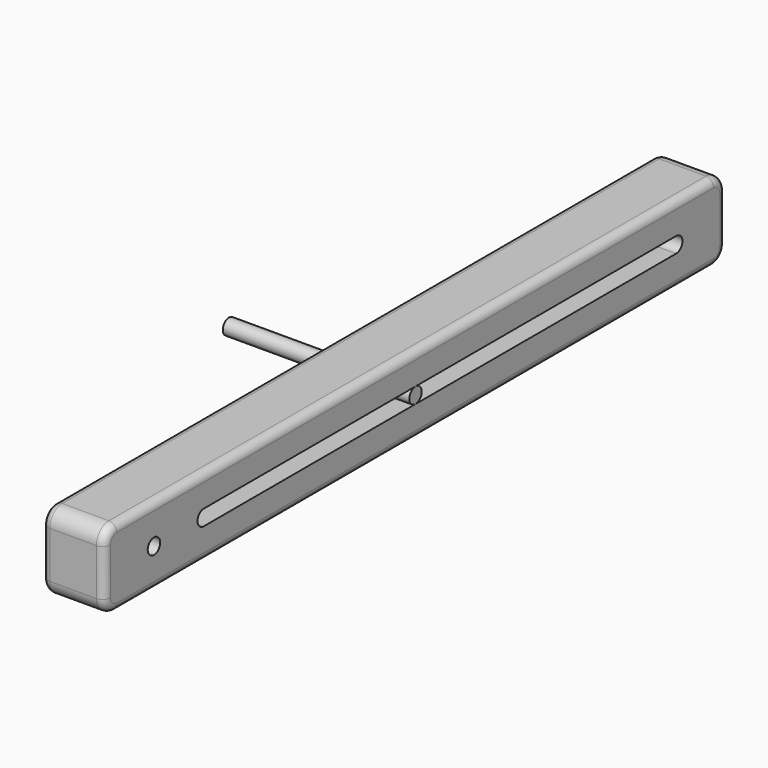
from build123d import *

# Parameters (mm, degrees)
F0_W     = 500
F0_H     = 50
F0_R     = 5
F1_DEPTH = 40
F2_R     = 10
F3_R     = 5
F4_R     = 5
F5_DEPTH = 120


with BuildPart() as f1:
    # F0 (on Right) → F1 (new body)
    with BuildSketch(Plane.YZ):
        Rectangle(F0_W, F0_H)
        with Locations((-210, 0)):
            Circle(F0_R, mode=Mode.SUBTRACT)
        with BuildLine():
            Line((210, -5), (-170, -5))
            ThreePointArc((-170, -5), (-175, 0), (-170, 5))
            Line((-170, 5), (210, 5))
            ThreePointArc((210, 5), (215, 0), (210, -5))
        make_face(mode=Mode.SUBTRACT)
    extrude(amount=-F1_DEPTH)

    # F2
    f2_edges = [f1.edges().sort_by_distance(p)[0] for p in [
        (-20, -250, 25),
        (-20, -250, -25),
        (-20, 250, 25),
        (-20, 250, -25),
    ]]
    fillet(f2_edges, radius=F2_R)

    # F3
    f3_edges = [f1.edges().sort_by_distance(p)[0] for p in [
        (0, 0, 25),
        (-40, 0, 25),
    ]]
    fillet(f3_edges, radius=F3_R)


with BuildPart() as f5:
    # F4 (on Right) → F5 (new body)
    with BuildSketch(Plane.YZ):
        with Locations((0.350837, 0)):
            Circle(F4_R)
    extrude(amount=-F5_DEPTH)


solid = Compound([f1.part, f5.part])
